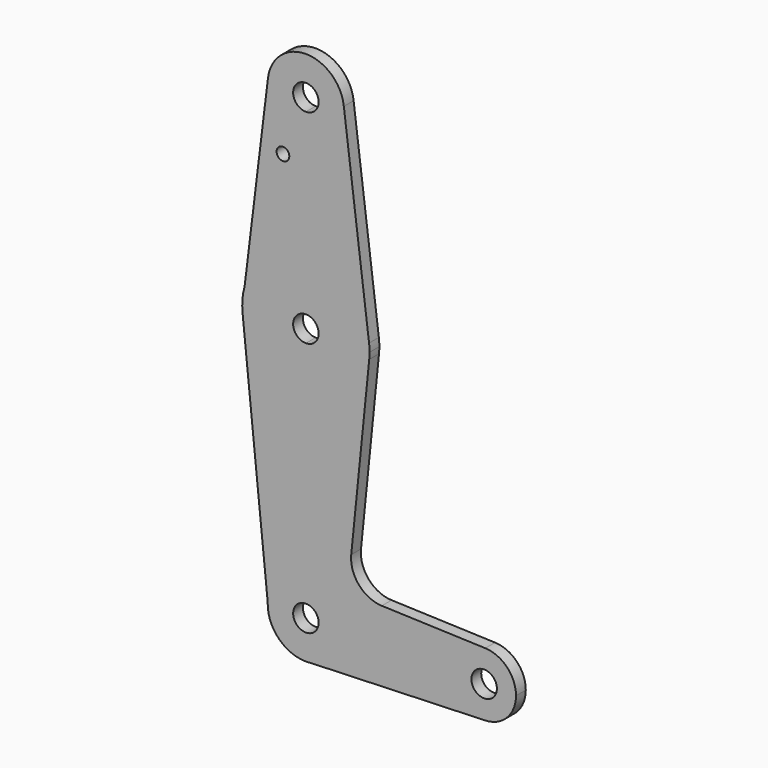
from build123d import *

# Parameters (mm, degrees)
F0_R     = 1.5875
F1_DEPTH = 3.048


with BuildPart() as f1:
    # F0 (on Front) → F1 (new body)
    with BuildSketch(Plane.XZ):
        with BuildLine():
            ThreePointArc((-64.8132633896, 60.1319106106), (-62.4907930128, 52.6627489994), (-55.3586514599, 49.4510826569))
            ThreePointArc((-55.3586514599, 49.4510826569), (-48.6234593691, 52.2408905661), (-45.8336514599, 58.9760826569))
            ThreePointArc((-45.8336514599, 58.9760826569), (-45.8494644056, 59.5247050816), (-45.8968507387, 60.0715059134))
            ThreePointArc((-45.8968507387, 60.0715059134), (-55.328235978, 68.501034095), (-64.8132633896, 60.1319106106))
        make_face()
        with BuildLine():
            ThreePointArc((-52.1836514599, 58.9760826569), (-53.1135874297, 56.7310186266), (-55.3586514599, 55.8010826569))
            ThreePointArc((-55.3586514599, 55.8010826569), (-57.6037154902, 61.2211466871), (-52.1836514599, 58.9760826569))
        make_face(mode=Mode.SUBTRACT)
        with BuildLine():
            ThreePointArc((-45.8336514599, 58.9760826569), (-48.6234593691, 52.2408905661), (-55.3586514599, 49.4510826569))
            Line((-55.3586514599, 49.4510826569), (-55.3586514599, 24.0510826569))
            ThreePointArc((-55.3586514599, 24.0510826569), (-44.8583830689, 20.0823830359), (-39.6081822285, 10.1606087943))
            Line((-39.6081822285, 10.1606087943), (-45.8968507387, 60.0715059134))
            ThreePointArc((-45.8968507387, 60.0715059134), (-45.8494644056, 59.5247050816), (-45.8336514599, 58.9760826569))
        make_face()
        with BuildLine():
            Line((-55.3586514599, 24.0510826569), (-55.3586514599, 49.4510826569))
            ThreePointArc((-55.3586514599, 49.4510826569), (-62.4907930128, 52.6627489994), (-64.8132633896, 60.1319106106))
            Line((-64.8132633896, 60.1319106106), (-70.6384294618, 12.4823582187))
            ThreePointArc((-70.6384294618, 12.4823582187), (-64.9412789821, 20.8326570264), (-55.3586514599, 24.0510826569))
        make_face()
        with Locations((-61.0793195665, 44.7012826569)):
            Circle(F0_R, mode=Mode.SUBTRACT)
        with BuildLine():
            ThreePointArc((-39.6081822285, 10.1606087943), (-44.8583830689, 20.0823830359), (-55.3586514599, 24.0510826569))
            Line((-55.3586514599, 24.0510826569), (-55.3586514599, 11.3510826569))
            ThreePointArc((-55.3586514599, 11.3510826569), (-53.1135874297, 10.4211466871), (-52.1836514599, 8.1760826569))
            ThreePointArc((-52.1836514599, 8.1760826569), (-53.1135874297, 5.9310186266), (-55.3586514599, 5.0010826569))
            Line((-55.3586514599, 5.0010826569), (-55.3586514599, -7.6989173431))
            ThreePointArc((-55.3586514599, -7.6989173431), (-44.7138953759, -3.6012172422), (-39.5644486563, 6.5764630774))
            ThreePointArc((-39.5644486563, 6.5764630774), (-39.5038636262, 7.3752532453), (-39.4836514599, 8.1760826569))
            ThreePointArc((-39.4836514599, 8.1760826569), (-39.5148147395, 9.1702974101), (-39.6081822285, 10.1606087943))
        make_face()
        with BuildLine():
            Line((-55.3586514599, 11.3510826569), (-55.3586514599, 24.0510826569))
            ThreePointArc((-55.3586514599, 24.0510826569), (-64.9412789821, 20.8326570264), (-70.6384294618, 12.4823582187))
            ThreePointArc((-70.6384294618, 12.4823582187), (-71.1742578308, 9.5480229333), (-71.1517147128, 6.565251166))
            ThreePointArc((-71.1517147128, 6.565251166), (-65.9992265168, -3.60499486), (-55.3586514599, -7.6989173431))
            Line((-55.3586514599, -7.6989173431), (-55.3586514599, 5.0010826569))
            ThreePointArc((-55.3586514599, 5.0010826569), (-58.5336514599, 8.1760826569), (-55.3586514599, 11.3510826569))
        make_face()
        with BuildLine():
            ThreePointArc((-55.3586514599, -7.6989173431), (-65.9992265168, -3.60499486), (-71.1517147128, 6.565251166))
            Line((-71.1517147128, 6.565251166), (-64.8766093706, -54.9577176557))
            ThreePointArc((-64.8766093706, -54.9577176557), (-61.9631034802, -48.4604751665), (-55.3586514599, -45.7989173431))
            Line((-55.3586514599, -45.7989173431), (-55.3586514599, -7.6989173431))
        make_face()
        with BuildLine():
            ThreePointArc((-39.5644486563, 6.5764630774), (-44.7138953759, -3.6012172422), (-55.3586514599, -7.6989173431))
            Line((-55.3586514599, -7.6989173431), (-55.3586514599, -45.7989173431))
            ThreePointArc((-55.3586514599, -45.7989173431), (-48.6234593691, -48.5887252523), (-45.8336514599, -55.3239173431))
            Line((-45.8336514599, -55.3239173431), (-18.8461514599, -55.3239173431))
            ThreePointArc((-18.8461514599, -55.3239173431), (-16.4205619447, -49.6122845592), (-10.6262461854, -47.3914427286))
            Line((-10.6262461854, -47.3914427286), (-36.4245486723, -46.4729933101))
            ThreePointArc((-36.4245486723, -46.4729933101), (-42.1336776485, -43.7529375126), (-44.0514283133, -37.7267372507))
            Line((-44.0514283133, -37.7267372507), (-39.5644486563, 6.5764630774))
        make_face()
        with BuildLine():
            ThreePointArc((-55.3586514599, -45.7989173431), (-61.9631034802, -48.4604751665), (-64.8766093706, -54.9577176557))
            ThreePointArc((-64.8766093706, -54.9577176557), (-62.3415788488, -61.8019070067), (-55.7065412214, -64.8425620846))
            Line((-55.7065412214, -64.8425620846), (-54.3426150941, -64.794571761))
            ThreePointArc((-54.3426150941, -64.794571761), (-48.2733366686, -61.6897589456), (-45.8336514599, -55.3239173431))
            Line((-45.8336514599, -55.3239173431), (-52.1836514599, -55.3239173431))
            ThreePointArc((-52.1836514599, -55.3239173431), (-57.6037154902, -57.5689813734), (-55.3586514599, -52.1489173431))
            Line((-55.3586514599, -52.1489173431), (-55.3586514599, -45.7989173431))
        make_face()
        with BuildLine():
            Line((-54.3426150941, -64.794571761), (-55.7065412214, -64.8425620846))
            ThreePointArc((-55.7065412214, -64.8425620846), (-55.0237175276, -64.843026769), (-54.3426150941, -64.794571761))
        make_face()
        with BuildLine():
            Line((-18.8461514599, -55.3239173431), (-45.8336514599, -55.3239173431))
            ThreePointArc((-45.8336514599, -55.3239173431), (-48.2733366686, -61.6897589456), (-54.3426150941, -64.794571761))
            Line((-54.3426150941, -64.794571761), (-10.6295398496, -63.2565085313))
            ThreePointArc((-10.6295398496, -63.2565085313), (-16.4217475884, -61.0344057048), (-18.8461514599, -55.3239173431))
        make_face()
        with BuildLine():
            ThreePointArc((-10.6262461854, -47.3914427286), (-16.4205619447, -49.6122845592), (-18.8461514599, -55.3239173431))
            ThreePointArc((-18.8461514599, -55.3239173431), (-16.4217475884, -61.0344057048), (-10.6295398496, -63.2565085313))
            ThreePointArc((-10.6295398496, -63.2565085313), (-5.1981630983, -60.8370134716), (-2.9711514599, -55.3239173431))
            ThreePointArc((-2.9711514599, -55.3239173431), (-5.197018676, -49.8120068584), (-10.6262461854, -47.3914427286))
        make_face()
        with BuildLine():
            ThreePointArc((-7.7336514599, -55.3239173431), (-10.9086514599, -58.4989173431), (-14.0836514599, -55.3239173431))
            ThreePointArc((-14.0836514599, -55.3239173431), (-10.9086514599, -52.1489173431), (-7.7336514599, -55.3239173431))
        make_face(mode=Mode.SUBTRACT)
        with BuildLine():
            ThreePointArc((-45.8336514599, -55.3239173431), (-48.6234593691, -48.5887252523), (-55.3586514599, -45.7989173431))
            Line((-55.3586514599, -45.7989173431), (-55.3586514599, -52.1489173431))
            ThreePointArc((-55.3586514599, -52.1489173431), (-53.1135874297, -53.0788533129), (-52.1836514599, -55.3239173431))
            Line((-52.1836514599, -55.3239173431), (-45.8336514599, -55.3239173431))
        make_face()
    extrude(amount=F1_DEPTH)


solid = f1.part
